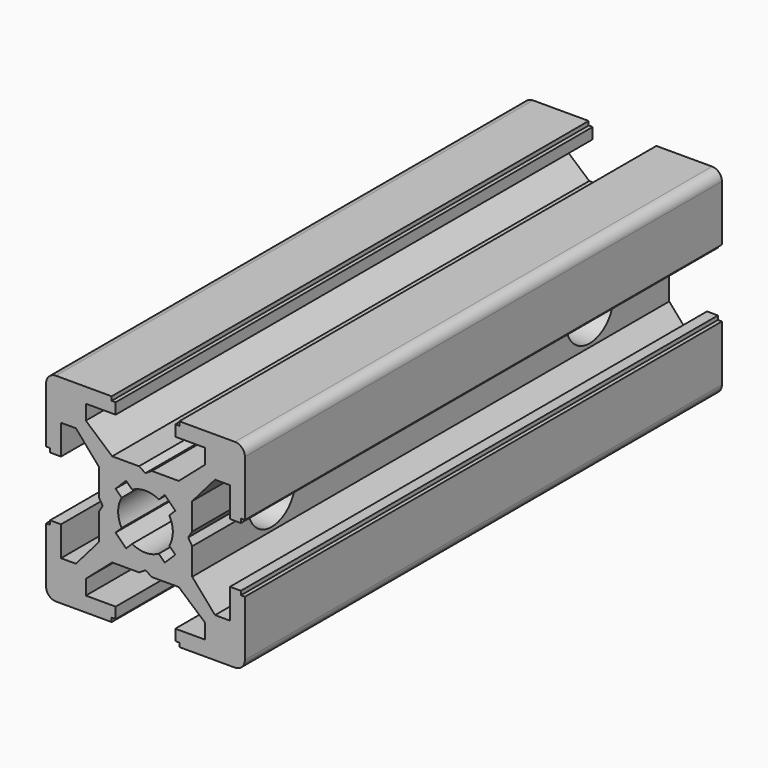
from build123d import *

# Parameters (mm, degrees)
PAD_DEPTH          = 60
POCKET_DEPTH       = 60
POLARPATTERN_COUNT = 4
POCKET001_DEPTH    = 60
SKETCH003_R        = 3
POCKET002_DEPTH    = 20
SKETCH004_R        = 5
POCKET003_DEPTH    = 3
POCKET004_DEPTH    = 3


with BuildPart() as pocket002:
    # Sketch → Pad (new body)
    with BuildSketch(Plane.XZ):
        with BuildLine():
            Line((-9, 10), (9, 10))
            ThreePointArc((10, 9), (9.707107, 9.707107), (9, 10))
            Line((10, 9), (10, -9))
            ThreePointArc((9, -10), (9.707107, -9.707107), (10, -9))
            Line((9, -10), (-9, -10))
            ThreePointArc((-10, -9), (-9.707107, -9.707107), (-9, -10))
            Line((-10, -9), (-10, 9))
            ThreePointArc((-9, 10), (-9.707107, 9.707107), (-10, 9))
        make_face()
    extrude(amount=PAD_DEPTH)

    # Sketch001 (on Face10 of Pad) → Pocket (cut)
    with BuildSketch(Plane.XZ.offset(60)):
        Polygon((-3.4, 10), (-3.4, 9.6), (-3, 9.6), (-3, 8.5), (-6, 8.5), (-6, 7), (-3.35, 4.7), (-0.65, 4.7), (0, 4.3), (0.65, 4.7), (3.35, 4.7), (6, 7), (6, 8.5), (3, 8.5), (3, 9.6), (3.4, 9.6), (3.4, 10), align=None)
    pocket = extrude(amount=-POCKET_DEPTH, mode=Mode.SUBTRACT)

    # PolarPattern: Pocket ×4 about axis
    polarpattern_axis = Axis((0, -60, 0), (0, -1, 0))
    for i in range(1, POLARPATTERN_COUNT):
        add(pocket.rotate(polarpattern_axis, i * 360 / POLARPATTERN_COUNT), mode=Mode.SUBTRACT)

    # Sketch002 (on Face4 of PolarPattern) → Pocket001 (cut)
    with BuildSketch(Plane.XZ.offset(60)):
        with BuildLine():
            ThreePointArc((1.340499, 2.401159), (0, 2.75), (-1.340499, 2.401159))
            Line((-1.944544, 3.005204), (-1.340499, 2.401159))
            Line((-3.005204, 1.944544), (-1.944544, 3.005204))
            Line((-2.401159, 1.340499), (-3.005204, 1.944544))
            ThreePointArc((-2.401159, 1.340499), (-2.75, 0), (-2.401159, -1.340499))
            Line((-3.005204, -1.944544), (-2.401159, -1.340499))
            Line((-1.944544, -3.005204), (-3.005204, -1.944544))
            Line((-1.340499, -2.401159), (-1.944544, -3.005204))
            ThreePointArc((-1.340499, -2.401159), (0, -2.75), (1.340499, -2.401159))
            Line((1.944544, -3.005204), (1.340499, -2.401159))
            Line((3.005204, -1.944544), (1.944544, -3.005204))
            Line((2.401159, -1.340499), (3.005204, -1.944544))
            ThreePointArc((2.401159, -1.340499), (2.75, 0), (2.401159, 1.340499))
            Line((2.401159, 1.340499), (3.005204, 1.944544))
            Line((3.005204, 1.944544), (1.944544, 3.005204))
            Line((1.944544, 3.005204), (1.340499, 2.401159))
        make_face()
    extrude(amount=-POCKET001_DEPTH, mode=Mode.SUBTRACT)

    # Sketch003 (on Face44 of Pocket001) → Pocket002 (cut)
    with BuildSketch(Plane(origin=(10, 0, 0), x_dir=(0, 0, 1), z_dir=(1, 0, 0))):
        with Locations((0, 10)):
            Circle(SKETCH003_R)
        with Locations((0, 50)):
            Circle(SKETCH003_R)
    extrude(amount=-POCKET002_DEPTH, mode=Mode.SUBTRACT)


with BuildPart() as pocket003:
    # Pocket003 base: copy of Pocket002
    add(pocket002.part)

    # Sketch004 (on Face37 of Pocket002) → Pocket003 (cut)
    with BuildSketch(Plane(origin=(-10, 0, 0), x_dir=(0, 0, -1), z_dir=(-1, 0, 0))):
        with Locations((0, 10)):
            Circle(SKETCH004_R)
        with Locations((0, 50)):
            Circle(SKETCH004_R)
    extrude(amount=-POCKET003_DEPTH, mode=Mode.SUBTRACT)


with BuildPart() as pocket004:
    # Pocket004 base: copy of Pocket002
    add(pocket002.part)

    # Sketch004 (on Face37 of Pocket002) → Pocket004 (cut)
    with BuildSketch(Plane(origin=(-10, 0, 0), x_dir=(0, 0, -1), z_dir=(-1, 0, 0))):
        with Locations((0, 10)):
            Circle(SKETCH004_R)
        with Locations((0, 50)):
            Circle(SKETCH004_R)
    extrude(amount=-POCKET004_DEPTH, mode=Mode.SUBTRACT)


solid = Compound([pocket003.part, pocket004.part])
